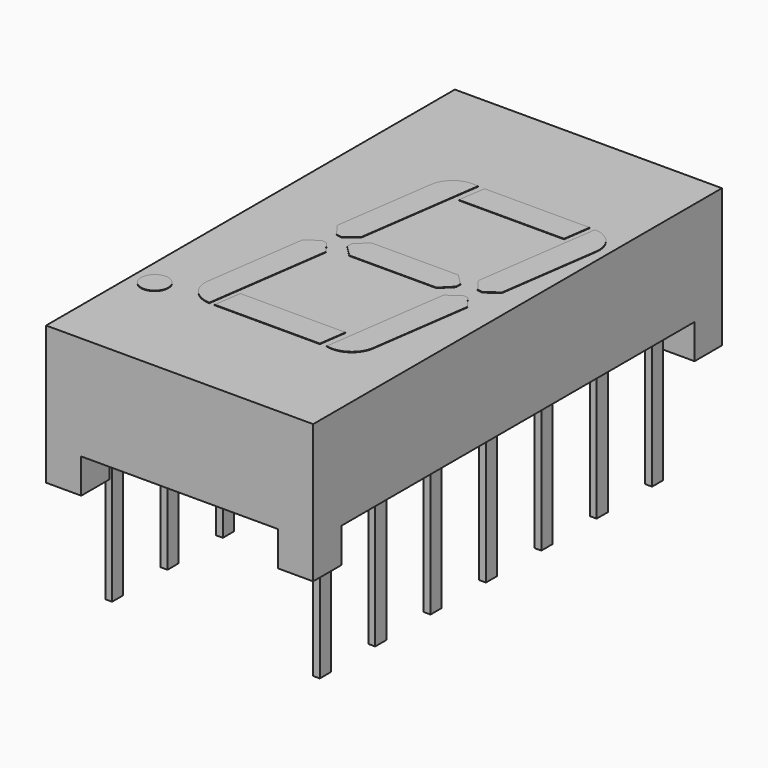
from build123d import *

# Parameters (mm, degrees)
BOX001_W                  = 20
BOX001_H                  = 16.2
BOX001_DEPTH              = 2.54
BOX_W                     = 7.22
BOX_H                     = 22
BOX_DEPTH                 = 2.54
SKETCH_W                  = 9.8
SKETCH_H                  = 18.75
PAD_DEPTH                 = 5.08
BOX003_W                  = 0.25
BOX003_H                  = 1.5
BOX003_DEPTH              = 1.5
BOX003_ROLL_ANGLE         = 45
BOX002_W                  = 0.25
BOX002_H                  = 0.51
BOX002_DEPTH              = 6
BOX005_W                  = 0.25
BOX005_H                  = 1.5
BOX005_DEPTH              = 1.5
BOX005_ROLL_ANGLE         = 45
BOX004_W                  = 0.25
BOX004_H                  = 0.51
BOX004_DEPTH              = 6
BOX007_W                  = 0.25
BOX007_H                  = 1.5
BOX007_DEPTH              = 1.5
BOX007_ROLL_ANGLE         = 45
BOX006_W                  = 0.25
BOX006_H                  = 0.51
BOX006_DEPTH              = 6
BOX009_W                  = 0.25
BOX009_H                  = 1.5
BOX009_DEPTH              = 1.5
BOX009_ROLL_ANGLE         = 45
BOX008_W                  = 0.25
BOX008_H                  = 0.51
BOX008_DEPTH              = 6
BOX011_W                  = 0.25
BOX011_H                  = 1.5
BOX011_DEPTH              = 1.5
BOX011_ROLL_ANGLE         = 45
BOX010_W                  = 0.25
BOX010_H                  = 0.51
BOX010_DEPTH              = 6
BOX013_W                  = 0.25
BOX013_H                  = 1.5
BOX013_DEPTH              = 1.5
BOX013_ROLL_ANGLE         = 45
BOX012_W                  = 0.25
BOX012_H                  = 0.51
BOX012_DEPTH              = 6
BOX015_W                  = 0.25
BOX015_H                  = 1.5
BOX015_DEPTH              = 1.5
BOX015_ROLL_ANGLE         = 45
BOX014_W                  = 0.25
BOX014_H                  = 0.51
BOX014_DEPTH              = 6
BOX017_W                  = 0.25
BOX017_H                  = 1.5
BOX017_DEPTH              = 1.5
BOX017_ROLL_ANGLE         = 45
BOX016_W                  = 0.25
BOX016_H                  = 0.51
BOX016_DEPTH              = 6
BOX019_W                  = 0.25
BOX019_H                  = 1.5
BOX019_DEPTH              = 1.5
BOX019_ROLL_ANGLE         = 45
BOX018_W                  = 0.25
BOX018_H                  = 0.51
BOX018_DEPTH              = 6
BOX021_W                  = 0.25
BOX021_H                  = 1.5
BOX021_DEPTH              = 1.5
BOX021_ROLL_ANGLE         = 45
BOX020_W                  = 0.25
BOX020_H                  = 0.51
BOX020_DEPTH              = 6
BOX023_W                  = 0.25
BOX023_H                  = 1.5
BOX023_DEPTH              = 1.5
BOX023_ROLL_ANGLE         = 45
BOX022_W                  = 0.25
BOX022_H                  = 0.51
BOX022_DEPTH              = 6
BOX025_W                  = 0.25
BOX025_H                  = 1.5
BOX025_DEPTH              = 1.5
BOX025_ROLL_ANGLE         = 45
BOX024_W                  = 0.25
BOX024_H                  = 0.51
BOX024_DEPTH              = 6
BOX027_W                  = 0.25
BOX027_H                  = 1.5
BOX027_DEPTH              = 1.5
BOX027_ROLL_ANGLE         = 45
BOX026_W                  = 0.25
BOX026_H                  = 0.51
BOX026_DEPTH              = 6
BOX029_W                  = 0.25
BOX029_H                  = 1.5
BOX029_DEPTH              = 1.5
BOX029_ROLL_ANGLE         = 45
BOX028_W                  = 0.25
BOX028_H                  = 0.51
BOX028_DEPTH              = 6
BOX039_W                  = 3
BOX039_H                  = 1
BOX039_DEPTH              = 2
BOX039_PLACEMENT_ANGLE    = -8
BOX040_W                  = 3
BOX040_H                  = 1
BOX040_DEPTH              = 2
BOX040_PLACEMENT_ANGLE    = -8
BOX038_W                  = 1
BOX038_H                  = 4
BOX038_DEPTH              = 2
BOX035_W                  = 3
BOX035_H                  = 1
BOX035_DEPTH              = 2
BOX035_PLACEMENT_ANGLE    = -8
BOX036_W                  = 3
BOX036_H                  = 1
BOX036_DEPTH              = 2
BOX036_PLACEMENT_ANGLE    = -8
BOX034_W                  = 1
BOX034_H                  = 4
BOX034_DEPTH              = 2
BOX030_W                  = 5
BOX030_H                  = 1
BOX030_DEPTH              = 2
BOX030_PLACEMENT_ANGLE    = -8
CHAMFER010_SIZE           = 0.4
CHAMFER011_SIZE           = 0.4
FILLET003_R               = 0.9
BOX033_W                  = 5
BOX033_H                  = 1
BOX033_DEPTH              = 2
BOX033_PLACEMENT_ANGLE    = -8
CHAMFER006_SIZE           = 0.4
CHAMFER007_SIZE           = 0.4
FILLET001_R               = 0.9
BOX031_W                  = 5
BOX031_H                  = 1
BOX031_DEPTH              = 2
BOX031_PLACEMENT_ANGLE    = -8
CHAMFER008_SIZE           = 0.4
CHAMFER009_SIZE           = 0.4
FILLET002_R               = 0.9
BOX037_W                  = 1
BOX037_H                  = 4
BOX037_DEPTH              = 2
CHAMFER012_SIZE           = 0.4
CHAMFER013_SIZE           = 0.4
CHAMFER014_SIZE           = 0.4
CHAMFER015_SIZE           = 0.4
CYLINDER016_R             = 0.5
CYLINDER016_DEPTH         = 2
BOX032_W                  = 5
BOX032_H                  = 1
BOX032_DEPTH              = 2
BOX032_PLACEMENT_ANGLE    = -8
CHAMFER004_SIZE           = 0.4
CHAMFER005_SIZE           = 0.4
FILLET_R                  = 0.9
FUSION014_PLACEMENT_ANGLE = 90


with BuildPart() as kub001:
    # Box001 → Box001 (new body)
    with BuildSketch(Plane(origin=(-6, -15.7, -1.27), x_dir=(1, 0, 0), z_dir=(0, 0, 1))):
        with Locations((10, 8.1)):
            Rectangle(BOX001_W, BOX001_H)
    extrude(amount=BOX001_DEPTH)


with BuildPart() as kub:
    # Box → Box (new body)
    with BuildSketch(Plane(origin=(0.2, -18, -1.27), x_dir=(1, 0, 0), z_dir=(0, 0, 1))):
        with Locations((3.61, 11)):
            Rectangle(BOX_W, BOX_H)
    extrude(amount=BOX_DEPTH)


with BuildPart() as cut001:
    # Sketch → Pad (new body)
    with BuildSketch(Plane.XY):
        with Locations((3.81, -7.62)):
            Rectangle(SKETCH_W, SKETCH_H)
    extrude(amount=PAD_DEPTH)

    # Cut: cut Kub
    add(kub.part, mode=Mode.SUBTRACT)

    # Cut001: cut Kub001
    add(kub001.part, mode=Mode.SUBTRACT)


with BuildPart() as kub003:
    # Box003 → Box003 (new body)
    with BuildSketch(Plane.XY):
        with Locations((0.125, 0.75)):
            Rectangle(BOX003_W, BOX003_H)
    extrude(amount=BOX003_DEPTH)


with BuildPart() as kub003_1:
    # Box003 roll: moved
    add(kub003.part.rotate(Axis((0, 0, 0), (1, 0, 0)), BOX003_ROLL_ANGLE))


with BuildPart() as kub003_2:
    # Box003 placement: moved
    add(kub003_1.part.moved(Location((-0.12, 0, 0.3))))


with BuildPart() as leg001:
    # Box002 → Box002 (new body)
    with BuildSketch(Plane(origin=(-0.12, -0.2505, -4.06), x_dir=(1, 0, 0), z_dir=(0, 0, 1))):
        with Locations((0.125, 0.255)):
            Rectangle(BOX002_W, BOX002_H)
    extrude(amount=BOX002_DEPTH)

    # Fusion: union Kub003
    add(kub003_2.part)


with BuildPart() as kub005:
    # Box005 → Box005 (new body)
    with BuildSketch(Plane.XY):
        with Locations((0.125, 0.75)):
            Rectangle(BOX005_W, BOX005_H)
    extrude(amount=BOX005_DEPTH)


with BuildPart() as kub005_1:
    # Box005 roll: moved
    add(kub005.part.rotate(Axis((0, 0, 0), (1, 0, 0)), BOX005_ROLL_ANGLE))


with BuildPart() as kub005_2:
    # Box005 placement: moved
    add(kub005_1.part.moved(Location((-0.12, 0, 0.3))))


with BuildPart() as leg002:
    # Box004 → Box004 (new body)
    with BuildSketch(Plane(origin=(-0.12, -0.2505, -4.06), x_dir=(1, 0, 0), z_dir=(0, 0, 1))):
        with Locations((0.125, 0.255)):
            Rectangle(BOX004_W, BOX004_H)
    extrude(amount=BOX004_DEPTH)

    # Fusion001: union Kub005
    add(kub005_2.part)


with BuildPart() as leg002_1:
    # Fusion001 placement: moved
    add(leg002.part.moved(Location((0, -2.54, 0))))


with BuildPart() as kub007:
    # Box007 → Box007 (new body)
    with BuildSketch(Plane.XY):
        with Locations((0.125, 0.75)):
            Rectangle(BOX007_W, BOX007_H)
    extrude(amount=BOX007_DEPTH)


with BuildPart() as kub007_1:
    # Box007 roll: moved
    add(kub007.part.rotate(Axis((0, 0, 0), (1, 0, 0)), BOX007_ROLL_ANGLE))


with BuildPart() as kub007_2:
    # Box007 placement: moved
    add(kub007_1.part.moved(Location((-0.12, 0, 0.3))))


with BuildPart() as leg003:
    # Box006 → Box006 (new body)
    with BuildSketch(Plane(origin=(-0.12, -0.2505, -4.06), x_dir=(1, 0, 0), z_dir=(0, 0, 1))):
        with Locations((0.125, 0.255)):
            Rectangle(BOX006_W, BOX006_H)
    extrude(amount=BOX006_DEPTH)

    # Fusion002: union Kub007
    add(kub007_2.part)


with BuildPart() as leg003_1:
    # Fusion002 placement: moved
    add(leg003.part.moved(Location((0, -5.08, 0))))


with BuildPart() as kub009:
    # Box009 → Box009 (new body)
    with BuildSketch(Plane.XY):
        with Locations((0.125, 0.75)):
            Rectangle(BOX009_W, BOX009_H)
    extrude(amount=BOX009_DEPTH)


with BuildPart() as kub009_1:
    # Box009 roll: moved
    add(kub009.part.rotate(Axis((0, 0, 0), (1, 0, 0)), BOX009_ROLL_ANGLE))


with BuildPart() as kub009_2:
    # Box009 placement: moved
    add(kub009_1.part.moved(Location((-0.12, 0, 0.3))))


with BuildPart() as leg004:
    # Box008 → Box008 (new body)
    with BuildSketch(Plane(origin=(-0.12, -0.2505, -4.06), x_dir=(1, 0, 0), z_dir=(0, 0, 1))):
        with Locations((0.125, 0.255)):
            Rectangle(BOX008_W, BOX008_H)
    extrude(amount=BOX008_DEPTH)

    # Fusion003: union Kub009
    add(kub009_2.part)


with BuildPart() as leg004_1:
    # Fusion003 placement: moved
    add(leg004.part.moved(Location((0, -7.62, 0))))


with BuildPart() as kub011:
    # Box011 → Box011 (new body)
    with BuildSketch(Plane.XY):
        with Locations((0.125, 0.75)):
            Rectangle(BOX011_W, BOX011_H)
    extrude(amount=BOX011_DEPTH)


with BuildPart() as kub011_1:
    # Box011 roll: moved
    add(kub011.part.rotate(Axis((0, 0, 0), (1, 0, 0)), BOX011_ROLL_ANGLE))


with BuildPart() as kub011_2:
    # Box011 placement: moved
    add(kub011_1.part.moved(Location((-0.12, 0, 0.3))))


with BuildPart() as leg005:
    # Box010 → Box010 (new body)
    with BuildSketch(Plane(origin=(-0.12, -0.2505, -4.06), x_dir=(1, 0, 0), z_dir=(0, 0, 1))):
        with Locations((0.125, 0.255)):
            Rectangle(BOX010_W, BOX010_H)
    extrude(amount=BOX010_DEPTH)

    # Fusion004: union Kub011
    add(kub011_2.part)


with BuildPart() as leg005_1:
    # Fusion004 placement: moved
    add(leg005.part.moved(Location((0, -10.16, 0))))


with BuildPart() as kub013:
    # Box013 → Box013 (new body)
    with BuildSketch(Plane.XY):
        with Locations((0.125, 0.75)):
            Rectangle(BOX013_W, BOX013_H)
    extrude(amount=BOX013_DEPTH)


with BuildPart() as kub013_1:
    # Box013 roll: moved
    add(kub013.part.rotate(Axis((0, 0, 0), (1, 0, 0)), BOX013_ROLL_ANGLE))


with BuildPart() as kub013_2:
    # Box013 placement: moved
    add(kub013_1.part.moved(Location((-0.12, 0, 0.3))))


with BuildPart() as leg006:
    # Box012 → Box012 (new body)
    with BuildSketch(Plane(origin=(-0.12, -0.2505, -4.06), x_dir=(1, 0, 0), z_dir=(0, 0, 1))):
        with Locations((0.125, 0.255)):
            Rectangle(BOX012_W, BOX012_H)
    extrude(amount=BOX012_DEPTH)

    # Fusion005: union Kub013
    add(kub013_2.part)


with BuildPart() as leg006_1:
    # Fusion005 placement: moved
    add(leg006.part.moved(Location((0, -12.7, 0))))


with BuildPart() as kub015:
    # Box015 → Box015 (new body)
    with BuildSketch(Plane.XY):
        with Locations((0.125, 0.75)):
            Rectangle(BOX015_W, BOX015_H)
    extrude(amount=BOX015_DEPTH)


with BuildPart() as kub015_1:
    # Box015 roll: moved
    add(kub015.part.rotate(Axis((0, 0, 0), (1, 0, 0)), BOX015_ROLL_ANGLE))


with BuildPart() as kub015_2:
    # Box015 placement: moved
    add(kub015_1.part.moved(Location((-0.12, 0, 0.3))))


with BuildPart() as leg007:
    # Box014 → Box014 (new body)
    with BuildSketch(Plane(origin=(-0.12, -0.2505, -4.06), x_dir=(1, 0, 0), z_dir=(0, 0, 1))):
        with Locations((0.125, 0.255)):
            Rectangle(BOX014_W, BOX014_H)
    extrude(amount=BOX014_DEPTH)

    # Fusion006: union Kub015
    add(kub015_2.part)


with BuildPart() as leg007_1:
    # Fusion006 placement: moved
    add(leg007.part.moved(Location((0, -15.24, 0))))


with BuildPart() as kub017:
    # Box017 → Box017 (new body)
    with BuildSketch(Plane.XY):
        with Locations((0.125, 0.75)):
            Rectangle(BOX017_W, BOX017_H)
    extrude(amount=BOX017_DEPTH)


with BuildPart() as kub017_1:
    # Box017 roll: moved
    add(kub017.part.rotate(Axis((0, 0, 0), (1, 0, 0)), BOX017_ROLL_ANGLE))


with BuildPart() as kub017_2:
    # Box017 placement: moved
    add(kub017_1.part.moved(Location((-0.12, 0, 0.3))))


with BuildPart() as leg008:
    # Box016 → Box016 (new body)
    with BuildSketch(Plane(origin=(-0.12, -0.2505, -4.06), x_dir=(1, 0, 0), z_dir=(0, 0, 1))):
        with Locations((0.125, 0.255)):
            Rectangle(BOX016_W, BOX016_H)
    extrude(amount=BOX016_DEPTH)

    # Fusion007: union Kub017
    add(kub017_2.part)


with BuildPart() as leg008_1:
    # Fusion007 placement: moved
    add(leg008.part.moved(Location((7.62, -15.24, 0))))


with BuildPart() as kub019:
    # Box019 → Box019 (new body)
    with BuildSketch(Plane.XY):
        with Locations((0.125, 0.75)):
            Rectangle(BOX019_W, BOX019_H)
    extrude(amount=BOX019_DEPTH)


with BuildPart() as kub019_1:
    # Box019 roll: moved
    add(kub019.part.rotate(Axis((0, 0, 0), (1, 0, 0)), BOX019_ROLL_ANGLE))


with BuildPart() as kub019_2:
    # Box019 placement: moved
    add(kub019_1.part.moved(Location((-0.12, 0, 0.3))))


with BuildPart() as leg009:
    # Box018 → Box018 (new body)
    with BuildSketch(Plane(origin=(-0.12, -0.2505, -4.06), x_dir=(1, 0, 0), z_dir=(0, 0, 1))):
        with Locations((0.125, 0.255)):
            Rectangle(BOX018_W, BOX018_H)
    extrude(amount=BOX018_DEPTH)

    # Fusion008: union Kub019
    add(kub019_2.part)


with BuildPart() as leg009_1:
    # Fusion008 placement: moved
    add(leg009.part.moved(Location((7.62, -12.7, 0))))


with BuildPart() as kub021:
    # Box021 → Box021 (new body)
    with BuildSketch(Plane.XY):
        with Locations((0.125, 0.75)):
            Rectangle(BOX021_W, BOX021_H)
    extrude(amount=BOX021_DEPTH)


with BuildPart() as kub021_1:
    # Box021 roll: moved
    add(kub021.part.rotate(Axis((0, 0, 0), (1, 0, 0)), BOX021_ROLL_ANGLE))


with BuildPart() as kub021_2:
    # Box021 placement: moved
    add(kub021_1.part.moved(Location((-0.12, 0, 0.3))))


with BuildPart() as leg010:
    # Box020 → Box020 (new body)
    with BuildSketch(Plane(origin=(-0.12, -0.2505, -4.06), x_dir=(1, 0, 0), z_dir=(0, 0, 1))):
        with Locations((0.125, 0.255)):
            Rectangle(BOX020_W, BOX020_H)
    extrude(amount=BOX020_DEPTH)

    # Fusion009: union Kub021
    add(kub021_2.part)


with BuildPart() as leg010_1:
    # Fusion009 placement: moved
    add(leg010.part.moved(Location((7.62, -10.16, 0))))


with BuildPart() as kub023:
    # Box023 → Box023 (new body)
    with BuildSketch(Plane.XY):
        with Locations((0.125, 0.75)):
            Rectangle(BOX023_W, BOX023_H)
    extrude(amount=BOX023_DEPTH)


with BuildPart() as kub023_1:
    # Box023 roll: moved
    add(kub023.part.rotate(Axis((0, 0, 0), (1, 0, 0)), BOX023_ROLL_ANGLE))


with BuildPart() as kub023_2:
    # Box023 placement: moved
    add(kub023_1.part.moved(Location((-0.12, 0, 0.3))))


with BuildPart() as leg011:
    # Box022 → Box022 (new body)
    with BuildSketch(Plane(origin=(-0.12, -0.2505, -4.06), x_dir=(1, 0, 0), z_dir=(0, 0, 1))):
        with Locations((0.125, 0.255)):
            Rectangle(BOX022_W, BOX022_H)
    extrude(amount=BOX022_DEPTH)

    # Fusion010: union Kub023
    add(kub023_2.part)


with BuildPart() as leg011_1:
    # Fusion010 placement: moved
    add(leg011.part.moved(Location((7.62, -7.62, 0))))


with BuildPart() as kub025:
    # Box025 → Box025 (new body)
    with BuildSketch(Plane.XY):
        with Locations((0.125, 0.75)):
            Rectangle(BOX025_W, BOX025_H)
    extrude(amount=BOX025_DEPTH)


with BuildPart() as kub025_1:
    # Box025 roll: moved
    add(kub025.part.rotate(Axis((0, 0, 0), (1, 0, 0)), BOX025_ROLL_ANGLE))


with BuildPart() as kub025_2:
    # Box025 placement: moved
    add(kub025_1.part.moved(Location((-0.12, 0, 0.3))))


with BuildPart() as leg012:
    # Box024 → Box024 (new body)
    with BuildSketch(Plane(origin=(-0.12, -0.2505, -4.06), x_dir=(1, 0, 0), z_dir=(0, 0, 1))):
        with Locations((0.125, 0.255)):
            Rectangle(BOX024_W, BOX024_H)
    extrude(amount=BOX024_DEPTH)

    # Fusion011: union Kub025
    add(kub025_2.part)


with BuildPart() as leg012_1:
    # Fusion011 placement: moved
    add(leg012.part.moved(Location((7.62, -5.08, 0))))


with BuildPart() as kub027:
    # Box027 → Box027 (new body)
    with BuildSketch(Plane.XY):
        with Locations((0.125, 0.75)):
            Rectangle(BOX027_W, BOX027_H)
    extrude(amount=BOX027_DEPTH)


with BuildPart() as kub027_1:
    # Box027 roll: moved
    add(kub027.part.rotate(Axis((0, 0, 0), (1, 0, 0)), BOX027_ROLL_ANGLE))


with BuildPart() as kub027_2:
    # Box027 placement: moved
    add(kub027_1.part.moved(Location((-0.12, 0, 0.3))))


with BuildPart() as leg013:
    # Box026 → Box026 (new body)
    with BuildSketch(Plane(origin=(-0.12, -0.2505, -4.06), x_dir=(1, 0, 0), z_dir=(0, 0, 1))):
        with Locations((0.125, 0.255)):
            Rectangle(BOX026_W, BOX026_H)
    extrude(amount=BOX026_DEPTH)

    # Fusion012: union Kub027
    add(kub027_2.part)


with BuildPart() as leg013_1:
    # Fusion012 placement: moved
    add(leg013.part.moved(Location((7.62, -2.54, 0))))


with BuildPart() as kub029:
    # Box029 → Box029 (new body)
    with BuildSketch(Plane.XY):
        with Locations((0.125, 0.75)):
            Rectangle(BOX029_W, BOX029_H)
    extrude(amount=BOX029_DEPTH)


with BuildPart() as kub029_1:
    # Box029 roll: moved
    add(kub029.part.rotate(Axis((0, 0, 0), (1, 0, 0)), BOX029_ROLL_ANGLE))


with BuildPart() as kub029_2:
    # Box029 placement: moved
    add(kub029_1.part.moved(Location((-0.12, 0, 0.3))))


with BuildPart() as leg014:
    # Box028 → Box028 (new body)
    with BuildSketch(Plane(origin=(-0.12, -0.2505, -4.06), x_dir=(1, 0, 0), z_dir=(0, 0, 1))):
        with Locations((0.125, 0.255)):
            Rectangle(BOX028_W, BOX028_H)
    extrude(amount=BOX028_DEPTH)

    # Fusion013: union Kub029
    add(kub029_2.part)


with BuildPart() as leg014_1:
    # Fusion013 placement: moved
    add(leg014.part.moved(Location((7.62, 0, 0))))


with BuildPart() as kub039:
    # Box039 → Box039 (new body)
    with BuildSketch(Plane.XY):
        with Locations((1.5, 0.5)):
            Rectangle(BOX039_W, BOX039_H)
    extrude(amount=BOX039_DEPTH)


with BuildPart() as kub039_1:
    # Box039 placement: moved
    add(kub039.part.moved(Location((-5, 18.14, 0))).rotate(Axis((-5, 18.14, 0), (0, 0, 1)), BOX039_PLACEMENT_ANGLE))


with BuildPart() as kub040:
    # Box040 → Box040 (new body)
    with BuildSketch(Plane.XY):
        with Locations((1.5, 0.5)):
            Rectangle(BOX040_W, BOX040_H)
    extrude(amount=BOX040_DEPTH)


with BuildPart() as kub040_1:
    # Box040 placement: moved
    add(kub040.part.moved(Location((-5, 13.27, 0))).rotate(Axis((-5, 13.27, 0), (0, 0, 1)), BOX040_PLACEMENT_ANGLE))


with BuildPart() as cut005:
    # Box038 → Box038 (new body)
    with BuildSketch(Plane(origin=(-4, 14, 0), x_dir=(1, 0, 0), z_dir=(0, 0, 1))):
        with Locations((0.5, 2)):
            Rectangle(BOX038_W, BOX038_H)
    extrude(amount=BOX038_DEPTH)

    # Cut004: cut Kub040
    add(kub040_1.part, mode=Mode.SUBTRACT)

    # Cut005: cut Kub039
    add(kub039_1.part, mode=Mode.SUBTRACT)


with BuildPart() as cut005_1:
    # Cut005 placement: moved
    add(cut005.part.moved(Location((13.45, -1.6, 0))))


with BuildPart() as kub035:
    # Box035 → Box035 (new body)
    with BuildSketch(Plane.XY):
        with Locations((1.5, 0.5)):
            Rectangle(BOX035_W, BOX035_H)
    extrude(amount=BOX035_DEPTH)


with BuildPart() as kub035_1:
    # Box035 placement: moved
    add(kub035.part.moved(Location((-5, 18.14, 0))).rotate(Axis((-5, 18.14, 0), (0, 0, 1)), BOX035_PLACEMENT_ANGLE))


with BuildPart() as kub036:
    # Box036 → Box036 (new body)
    with BuildSketch(Plane.XY):
        with Locations((1.5, 0.5)):
            Rectangle(BOX036_W, BOX036_H)
    extrude(amount=BOX036_DEPTH)


with BuildPart() as kub036_1:
    # Box036 placement: moved
    add(kub036.part.moved(Location((-5, 13.27, 0))).rotate(Axis((-5, 13.27, 0), (0, 0, 1)), BOX036_PLACEMENT_ANGLE))


with BuildPart() as cut003:
    # Box034 → Box034 (new body)
    with BuildSketch(Plane(origin=(-4, 14, 0), x_dir=(1, 0, 0), z_dir=(0, 0, 1))):
        with Locations((0.5, 2)):
            Rectangle(BOX034_W, BOX034_H)
    extrude(amount=BOX034_DEPTH)

    # Cut002: cut Kub036
    add(kub036_1.part, mode=Mode.SUBTRACT)

    # Cut003: cut Kub035
    add(kub035_1.part, mode=Mode.SUBTRACT)


with BuildPart() as cut003_1:
    # Cut003 placement: moved
    add(cut003.part.moved(Location((4, -0.2, 0))))


with BuildPart() as fillet003:
    # Box030 → Box030 (new body)
    with BuildSketch(Plane.XY):
        with Locations((2.5, 0.5)):
            Rectangle(BOX030_W, BOX030_H)
    extrude(amount=BOX030_DEPTH)


with BuildPart() as fillet003_1:
    # Box030 placement: moved
    add(fillet003.part.moved(Location((0, 18, 0))).rotate(Axis((0, 18, 0), (0, 0, 1)), BOX030_PLACEMENT_ANGLE))

    # Chamfer010
    chamfer010_edges = [fillet003_1.edges().sort_by_distance(p)[0] for p in [
        (4.95134, 17.304134, 1),
    ]]
    chamfer(chamfer010_edges, length=CHAMFER010_SIZE)

    # Chamfer011
    chamfer011_edges = [fillet003_1.edges().sort_by_distance(p)[0] for p in [
        (5.090513, 18.294403, 1),
    ]]
    chamfer(chamfer011_edges, length=CHAMFER011_SIZE)

    # Fillet003
    fillet003_edges = [fillet003_1.edges().sort_by_distance(p)[0] for p in [
        (0.139173, 18.990268, 1),
    ]]
    fillet(fillet003_edges, radius=FILLET003_R)


with BuildPart() as fillet001:
    # Box033 → Box033 (new body)
    with BuildSketch(Plane.XY):
        with Locations((2.5, 0.5)):
            Rectangle(BOX033_W, BOX033_H)
    extrude(amount=BOX033_DEPTH)


with BuildPart() as fillet001_1:
    # Box033 placement: moved
    add(fillet001.part.moved(Location((9, 13, 0))).rotate(Axis((9, 13, 0), (0, 0, 1)), BOX033_PLACEMENT_ANGLE))

    # Chamfer006
    chamfer006_edges = [fillet001_1.edges().sort_by_distance(p)[0] for p in [
        (9.139173, 13.990268, 1),
    ]]
    chamfer(chamfer006_edges, length=CHAMFER006_SIZE)

    # Chamfer007
    chamfer007_edges = [fillet001_1.edges().sort_by_distance(p)[0] for p in [
        (9, 13, 1),
    ]]
    chamfer(chamfer007_edges, length=CHAMFER007_SIZE)

    # Fillet001
    fillet001_edges = [fillet001_1.edges().sort_by_distance(p)[0] for p in [
        (13.95134, 12.304134, 1),
    ]]
    fillet(fillet001_edges, radius=FILLET001_R)


with BuildPart() as fillet001_2:
    # Fillet001 placement: moved
    add(fillet001_1.part.moved(Location((-3.65, -1.1, 0))))


with BuildPart() as fillet002:
    # Box031 → Box031 (new body)
    with BuildSketch(Plane.XY):
        with Locations((2.5, 0.5)):
            Rectangle(BOX031_W, BOX031_H)
    extrude(amount=BOX031_DEPTH)


with BuildPart() as fillet002_1:
    # Box031 placement: moved
    add(fillet002.part.moved(Location((0, 13, 0))).rotate(Axis((0, 13, 0), (0, 0, 1)), BOX031_PLACEMENT_ANGLE))

    # Chamfer008
    chamfer008_edges = [fillet002_1.edges().sort_by_distance(p)[0] for p in [
        (4.95134, 12.304134, 1),
    ]]
    chamfer(chamfer008_edges, length=CHAMFER008_SIZE)

    # Chamfer009
    chamfer009_edges = [fillet002_1.edges().sort_by_distance(p)[0] for p in [
        (5.090513, 13.294403, 1),
    ]]
    chamfer(chamfer009_edges, length=CHAMFER009_SIZE)

    # Fillet002
    fillet002_edges = [fillet002_1.edges().sort_by_distance(p)[0] for p in [
        (0, 13, 1),
    ]]
    fillet(fillet002_edges, radius=FILLET002_R)


with BuildPart() as fillet002_2:
    # Fillet002 placement: moved
    add(fillet002_1.part.moved(Location((-0.14, -0.3, 0))))


with BuildPart() as chamfer015:
    # Box037 → Box037 (new body)
    with BuildSketch(Plane(origin=(-10, 14, 0), x_dir=(1, 0, 0), z_dir=(0, 0, 1))):
        with Locations((0.5, 2)):
            Rectangle(BOX037_W, BOX037_H)
    extrude(amount=BOX037_DEPTH)

    # Chamfer012
    chamfer012_edges = [chamfer015.edges().sort_by_distance(p)[0] for p in [
        (-9, 14, 1),
    ]]
    chamfer(chamfer012_edges, length=CHAMFER012_SIZE)

    # Chamfer013
    chamfer013_edges = [chamfer015.edges().sort_by_distance(p)[0] for p in [
        (-9, 18, 1),
    ]]
    chamfer(chamfer013_edges, length=CHAMFER013_SIZE)

    # Chamfer014
    chamfer014_edges = [chamfer015.edges().sort_by_distance(p)[0] for p in [
        (-10, 14, 1),
    ]]
    chamfer(chamfer014_edges, length=CHAMFER014_SIZE)

    # Chamfer015
    chamfer015_edges = [chamfer015.edges().sort_by_distance(p)[0] for p in [
        (-10, 18, 1),
    ]]
    chamfer(chamfer015_edges, length=CHAMFER015_SIZE)


with BuildPart() as chamfer015_1:
    # Chamfer015 placement: moved
    add(chamfer015.part.moved(Location((14.8, -0.9, 0))))


with BuildPart() as cylinder:
    # Cylinder016 → Cylinder016 (new body)
    with BuildSketch(Plane(origin=(0, 20, 0), x_dir=(1, 0, 0), z_dir=(0, 0, 1))):
        Circle(CYLINDER016_R)
    extrude(amount=CYLINDER016_DEPTH)


with BuildPart() as fusion014:
    # Box032 → Box032 (new body)
    with BuildSketch(Plane.XY):
        with Locations((2.5, 0.5)):
            Rectangle(BOX032_W, BOX032_H)
    extrude(amount=BOX032_DEPTH)


with BuildPart() as fusion014_1:
    # Box032 placement: moved
    add(fusion014.part.moved(Location((9, 18, 0))).rotate(Axis((9, 18, 0), (0, 0, 1)), BOX032_PLACEMENT_ANGLE))

    # Chamfer004
    chamfer004_edges = [fusion014_1.edges().sort_by_distance(p)[0] for p in [
        (9, 18, 1),
    ]]
    chamfer(chamfer004_edges, length=CHAMFER004_SIZE)

    # Chamfer005
    chamfer005_edges = [fusion014_1.edges().sort_by_distance(p)[0] for p in [
        (9.139173, 18.990268, 1),
    ]]
    chamfer(chamfer005_edges, length=CHAMFER005_SIZE)

    # Fillet
    fillet_edges = [fusion014_1.edges().sort_by_distance(p)[0] for p in [
        (14.090513, 18.294403, 1),
    ]]
    fillet(fillet_edges, radius=FILLET_R)


with BuildPart() as fusion014_2:
    # Fillet placement: moved
    add(fusion014_1.part.moved(Location((-3.5, -0.8, 0))))

    # Fusion014: union Cut005, Cut003, Fillet003, Fillet001, Fillet002, Chamfer015, Cylinder
    add(cut005_1.part)
    add(cut003_1.part)
    add(fillet003_1.part)
    add(fillet001_2.part)
    add(fillet002_2.part)
    add(chamfer015_1.part)
    add(cylinder.part)


with BuildPart() as fusion014_3:
    # Fusion014 placement: moved
    add(fusion014_2.part.moved(Location((19.7, -13, 3.1))).rotate(Axis((19.7, -13, 3.1), (0, 0, 1)), FUSION014_PLACEMENT_ANGLE))


solid = Compound([cut001.part, leg001.part, leg002_1.part, leg003_1.part, leg004_1.part, leg005_1.part, leg006_1.part, leg007_1.part, leg008_1.part, leg009_1.part, leg010_1.part, leg011_1.part, leg012_1.part, leg013_1.part, leg014_1.part, fusion014_3.part])
